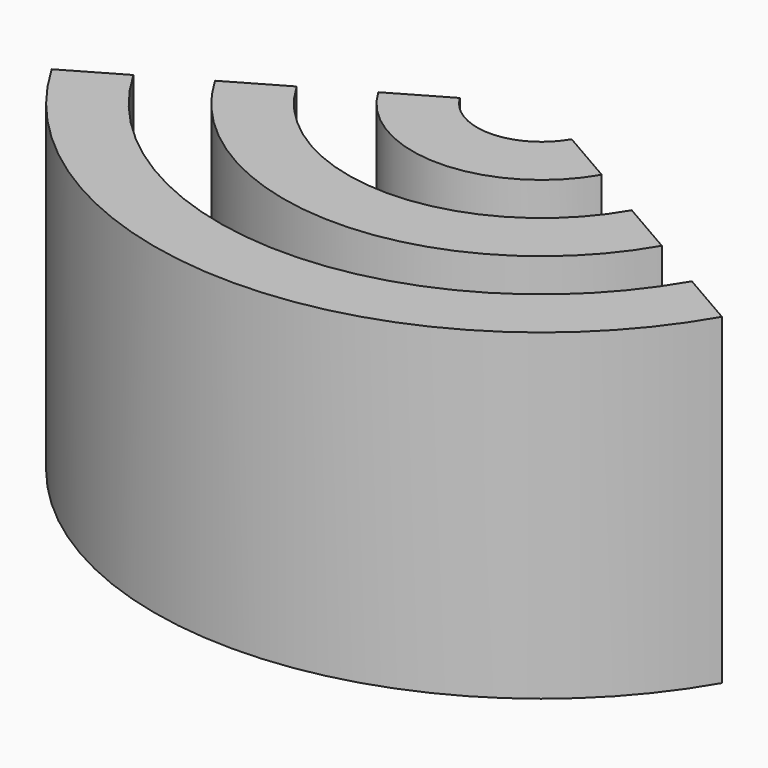
from build123d import *

# Parameters (mm, degrees)
CYLINDER026_W               = 6
CYLINDER026_H               = 10
CYLINDER026_ANGLE           = 120
CYLINDER026_PLACEMENT_ANGLE = 30
CYLINDER021_W               = 8
CYLINDER021_H               = 10
CYLINDER021_ANGLE           = 120
CYLINDER021_PLACEMENT_ANGLE = 30
CYLINDER024_W               = 2
CYLINDER024_H               = 10
CYLINDER024_ANGLE           = 120
CYLINDER024_PLACEMENT_ANGLE = 30
CYLINDER022_W               = 4
CYLINDER022_H               = 10
CYLINDER022_ANGLE           = 120
CYLINDER022_PLACEMENT_ANGLE = 30
CYLINDER025_W               = 10
CYLINDER025_H               = 10
CYLINDER025_ANGLE           = 120
CYLINDER025_PLACEMENT_ANGLE = 30
CYLINDER023_W               = 12
CYLINDER023_H               = 10
CYLINDER023_ANGLE           = 120
CYLINDER023_PLACEMENT_ANGLE = 30


with BuildPart() as cilindro017:
    # Cylinder026 → Cylinder026 (revolve)
    with BuildSketch(Plane.XZ):
        with Locations((3, 5)):
            Rectangle(CYLINDER026_W, CYLINDER026_H)
    revolve(axis=Axis((0, 0, 0), (0, 0, 1)), revolution_arc=CYLINDER026_ANGLE)


with BuildPart() as cilindro017_1:
    # Cylinder026 placement: moved
    add(cilindro017.part.moved(Location((-30.75, -30, 0))).rotate(Axis((-30.75, -30, 0), (0, 0, 1)), CYLINDER026_PLACEMENT_ANGLE))


with BuildPart() as obj1:
    # Cylinder021 → Cylinder021 (revolve)
    with BuildSketch(Plane.XZ):
        with Locations((4, 5)):
            Rectangle(CYLINDER021_W, CYLINDER021_H)
    revolve(axis=Axis((0, 0, 0), (0, 0, 1)), revolution_arc=CYLINDER021_ANGLE)


with BuildPart() as obj1_1:
    # Cylinder021 placement: moved
    add(obj1.part.moved(Location((-30.75, -30, 0))).rotate(Axis((-30.75, -30, 0), (0, 0, 1)), CYLINDER021_PLACEMENT_ANGLE))

    # Cut008: cut Cilindro017
    add(cilindro017_1.part, mode=Mode.SUBTRACT)


with BuildPart() as cilindro015:
    # Cylinder024 → Cylinder024 (revolve)
    with BuildSketch(Plane.XZ):
        with Locations((1, 5)):
            Rectangle(CYLINDER024_W, CYLINDER024_H)
    revolve(axis=Axis((0, 0, 0), (0, 0, 1)), revolution_arc=CYLINDER024_ANGLE)


with BuildPart() as cilindro015_1:
    # Cylinder024 placement: moved
    add(cilindro015.part.moved(Location((-30.75, -30, 0))).rotate(Axis((-30.75, -30, 0), (0, 0, 1)), CYLINDER024_PLACEMENT_ANGLE))


with BuildPart() as obj2:
    # Cylinder022 → Cylinder022 (revolve)
    with BuildSketch(Plane.XZ):
        with Locations((2, 5)):
            Rectangle(CYLINDER022_W, CYLINDER022_H)
    revolve(axis=Axis((0, 0, 0), (0, 0, 1)), revolution_arc=CYLINDER022_ANGLE)


with BuildPart() as obj2_1:
    # Cylinder022 placement: moved
    add(obj2.part.moved(Location((-30.75, -30, 0))).rotate(Axis((-30.75, -30, 0), (0, 0, 1)), CYLINDER022_PLACEMENT_ANGLE))

    # Cut010: cut Cilindro015
    add(cilindro015_1.part, mode=Mode.SUBTRACT)


with BuildPart() as cilindro016:
    # Cylinder025 → Cylinder025 (revolve)
    with BuildSketch(Plane.XZ):
        with Locations((5, 5)):
            Rectangle(CYLINDER025_W, CYLINDER025_H)
    revolve(axis=Axis((0, 0, 0), (0, 0, 1)), revolution_arc=CYLINDER025_ANGLE)


with BuildPart() as cilindro016_1:
    # Cylinder025 placement: moved
    add(cilindro016.part.moved(Location((-30.75, -30, 0))).rotate(Axis((-30.75, -30, 0), (0, 0, 1)), CYLINDER025_PLACEMENT_ANGLE))


with BuildPart() as fusion002:
    # Cylinder023 → Cylinder023 (revolve)
    with BuildSketch(Plane.XZ):
        with Locations((6, 5)):
            Rectangle(CYLINDER023_W, CYLINDER023_H)
    revolve(axis=Axis((0, 0, 0), (0, 0, 1)), revolution_arc=CYLINDER023_ANGLE)


with BuildPart() as fusion002_1:
    # Cylinder023 placement: moved
    add(fusion002.part.moved(Location((-30.75, -30, 0))).rotate(Axis((-30.75, -30, 0), (0, 0, 1)), CYLINDER023_PLACEMENT_ANGLE))

    # Cut009: cut Cilindro016
    add(cilindro016_1.part, mode=Mode.SUBTRACT)

    # Fusion002: union obj1, obj2
    add(obj1_1.part)
    add(obj2_1.part)


with BuildPart() as fusion002_2:
    # Fusion002 placement: moved
    add(fusion002_1.part.moved(Location((0, 0, -6))))


with BuildPart() as part_mirroring001:
    # Part__Mirroring001: instance of Fusion002
    add(fusion002_2.part.mirror(Plane(origin=(0, 0, 0), x_dir=(1, 0, 0), z_dir=(0, 1, 0))))


with BuildPart() as part_mirroring001_1:
    # Part__Mirroring001 placement: moved
    add(part_mirroring001.part.moved(Location((0, -60, 0))))


solid = part_mirroring001_1.part
